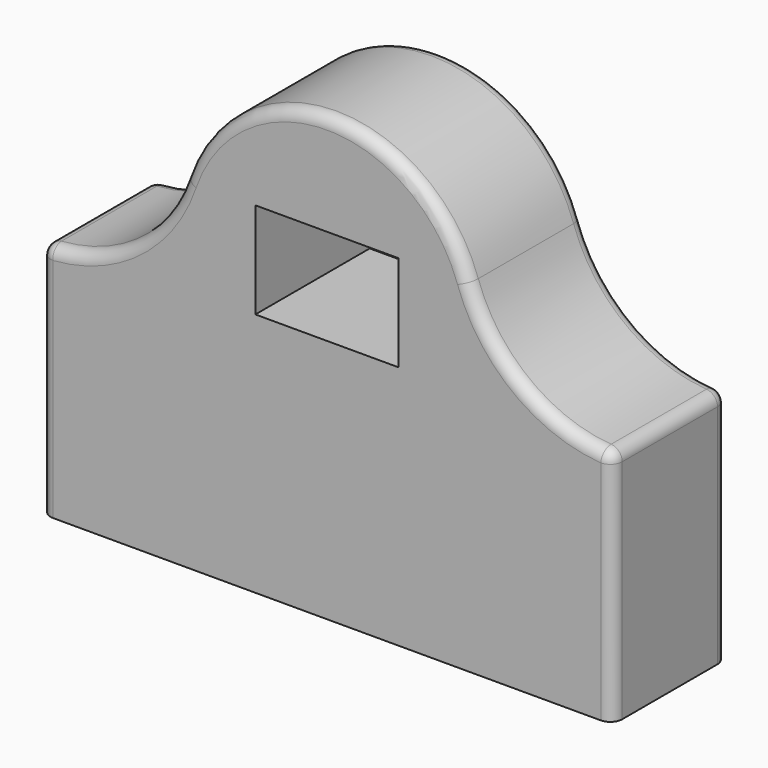
from build123d import *

# Parameters (mm, degrees)
F0_W     = 152.4
F0_H     = 101.6
F1_DEPTH = 152.4
F2_W     = 152.4
F2_H     = 0.8561833287
F3_DEPTH = 76.2
F4_R     = 12.7


with BuildPart() as f1:
    # F0 (on Front) → F1 (new body)
    with BuildSketch(Plane.XZ):
        with BuildLine():
            Line((0, 0), (0, -254))
            Line((0, -254), (609.6, -254))
            Line((609.6, -254), (609.6, 0))
            ThreePointArc((609.6, 0), (515.2777766961, 30.2643447869), (456.1725186703, 109.7576202765))
            ThreePointArc((456.1725186703, 109.7576202765), (304.8, 218.0451791971), (153.4274813297, 109.7576202765))
            ThreePointArc((153.4274813297, 109.7576202765), (94.3222233039, 30.2643447869), (0, 0))
        make_face()
        with Locations((304.8, 58.1014369479)):
            Rectangle(F0_W, F0_H, mode=Mode.SUBTRACT)
        with BuildLine():
            Line((0, 0), (0, -254))
            Line((0, -254), (609.6, -254))
            Line((609.6, -254), (609.6, 0))
            ThreePointArc((609.6, 0), (515.2777766961, 30.2643447869), (456.1725186703, 109.7576202765))
            ThreePointArc((456.1725186703, 109.7576202765), (304.8, 218.0451791971), (153.4274813297, 109.7576202765))
            ThreePointArc((153.4274813297, 109.7576202765), (94.3222233039, 30.2643447869), (0, 0))
        make_face()
        with Locations((304.8, 58.1014369479)):
            Rectangle(F0_W, F0_H, mode=Mode.SUBTRACT)
        with BuildLine():
            Line((0, 0), (0, -254))
            Line((0, -254), (609.6, -254))
            Line((609.6, -254), (609.6, 0))
            ThreePointArc((609.6, 0), (515.2777766961, 30.2643447869), (456.1725186703, 109.7576202765))
            ThreePointArc((456.1725186703, 109.7576202765), (304.8, 218.0451791971), (153.4274813297, 109.7576202765))
            ThreePointArc((153.4274813297, 109.7576202765), (94.3222233039, 30.2643447869), (0, 0))
        make_face()
        with Locations((304.8, 58.1014369479)):
            Rectangle(F0_W, F0_H, mode=Mode.SUBTRACT)
    extrude(amount=F1_DEPTH)

    # F2 (on face) → F3 (cut)
    with BuildSketch(Plane.XZ.offset(152.4)):
        with Locations((304.8, 109.3295286122)):
            Rectangle(F2_W, F2_H)
    extrude(amount=-F3_DEPTH, mode=Mode.SUBTRACT)

    # F4
    f4_edges = [f1.edges().sort_by_distance(p)[0] for p in [
        (609.6, -76.2, 0),
        (0, -76.2, 0),
        (515.277777, -152.4, 30.264345),
        (304.8, -152.4, 218.045179),
        (304.8, 0, 218.045179),
        (515.277777, 0, 30.264345),
        (609.6, -152.4, -127),
        (609.6, 0, -127),
        (0, -152.4, -127),
        (0, 0, -127),
    ]]
    fillet(f4_edges, radius=F4_R)


solid = f1.part
